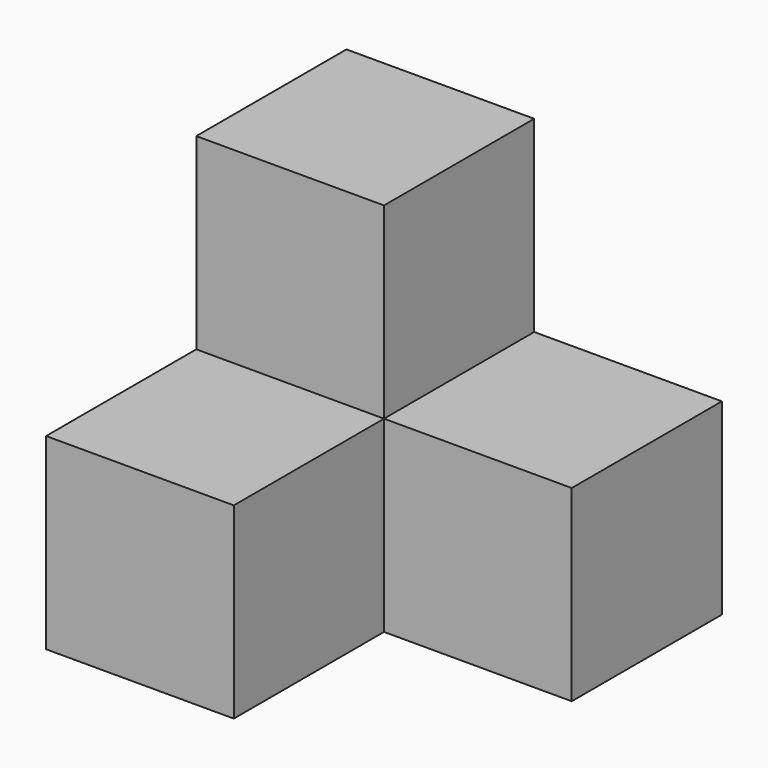
from build123d import *

# Parameters (mm, degrees)
BOX_W        = 10
BOX_H        = 10
BOX_DEPTH    = 10
BOX001_W     = 10
BOX001_H     = 10
BOX001_DEPTH = 10
BOX002_W     = 10
BOX002_H     = 10
BOX002_DEPTH = 10


with BuildPart() as obj1:
    # Box → Box (new body)
    with BuildSketch(Plane.XY):
        with Locations((5, 5)):
            Rectangle(BOX_W, BOX_H)
    extrude(amount=BOX_DEPTH)


with BuildPart() as obj2:
    # Box001 → Box001 (new body)
    with BuildSketch(Plane(origin=(0, -10, -10), x_dir=(1, 0, 0), z_dir=(0, 0, 1))):
        with Locations((5, 5)):
            Rectangle(BOX001_W, BOX001_H)
    extrude(amount=BOX001_DEPTH)


with BuildPart() as obj3:
    # Box002 → Box002 (new body)
    with BuildSketch(Plane(origin=(10, 0, -10), x_dir=(1, 0, 0), z_dir=(0, 0, 1))):
        with Locations((5, 5)):
            Rectangle(BOX002_W, BOX002_H)
    extrude(amount=BOX002_DEPTH)


solid = Compound([obj1.part, obj2.part, obj3.part])
